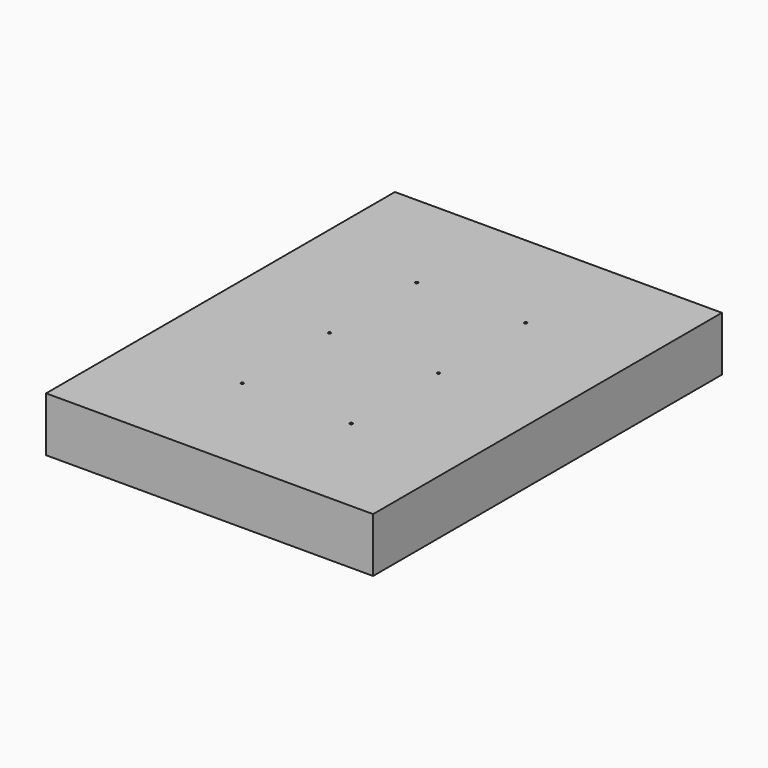
from build123d import *

# Parameters (mm, degrees)
F0_W     = 152.4
F0_H     = 203.2
F1_DEPTH = 25.4
F2_R     = 0.635
F3_DEPTH = 25.4


with BuildPart() as f1:
    # F0 (on Top) → F1 (new body)
    with BuildSketch(Plane.XY):
        with Locations((-1.786329, 101.6)):
            Rectangle(F0_W, F0_H)
    extrude(amount=F1_DEPTH)

    # F2 (on face) → F3 (cut)
    with BuildSketch(Plane.XY.offset(25.4)):
        with Locations((23.613671, 152.4)):
            Circle(F2_R)
        with Locations((23.613671, 101.6)):
            Circle(F2_R)
        with Locations((23.613671, 50.8)):
            Circle(F2_R)
        with Locations((-27.186329, 152.4)):
            Circle(F2_R)
        with Locations((-27.186329, 101.6)):
            Circle(F2_R)
        with Locations((-27.186329, 50.8)):
            Circle(F2_R)
    extrude(amount=-F3_DEPTH, mode=Mode.SUBTRACT)


solid = f1.part
